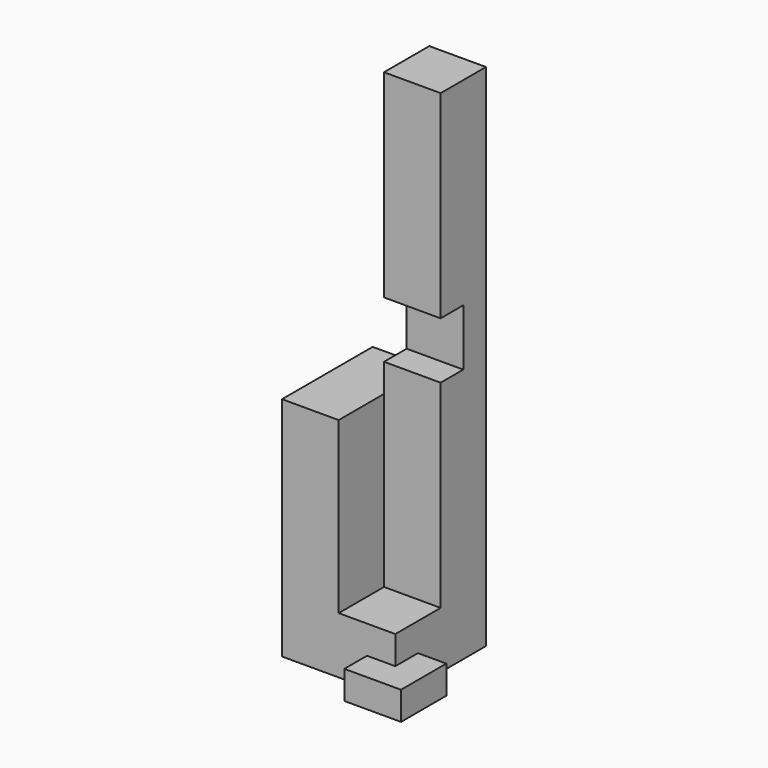
from build123d import *

# Parameters (mm, degrees)
F0_W      = 10.16
F0_H      = 10.16
F1_DEPTH  = 5.08
F2_W      = 5.08
F2_H      = 5.08
F3_DEPTH  = 2.54
F4_W      = 5.08
F4_H      = 5.08
F5_DEPTH  = 40.64
F6_W      = 5.08
F6_H      = 5.08
F7_DEPTH  = 25.4
F9_W      = 5.08
F9_H      = 10.16
F10_DEPTH = 15.24


with BuildPart() as f1:
    # F0 (on Top) → F1 (new body)
    with BuildSketch(Plane.XY):
        with Locations((5.08, -5.08)):
            Rectangle(F0_W, F0_H)
    extrude(amount=F1_DEPTH)

    # F2 (on face) → F3 (join)
    with BuildSketch(Plane(origin=(0, 0, 0), x_dir=(1, 0, 0), z_dir=(0, 0, -1))):
        with Locations((10.16, 10.16)):
            Rectangle(F2_W, F2_H)
    extrude(amount=-F3_DEPTH)

    # F4 (on face) → F5 (join)
    with BuildSketch(Plane.XY.offset(5.08)):
        with Locations((7.62, -2.54)):
            Rectangle(F4_W, F4_H)
    extrude(amount=F5_DEPTH)

    # F6 (on face) → F7 (cut)
    with BuildSketch(Plane.YZ.offset(10.16)):
        with Locations((-5.08, 25.4)):
            Rectangle(F6_W, F6_H)
    extrude(amount=-F7_DEPTH, mode=Mode.SUBTRACT)

    # F9 (on face) → F10 (join)
    with BuildSketch(Plane.XY.offset(5.08)):
        with Locations((2.54, -5.08)):
            Rectangle(F9_W, F9_H)
    extrude(amount=F10_DEPTH)


solid = f1.part
